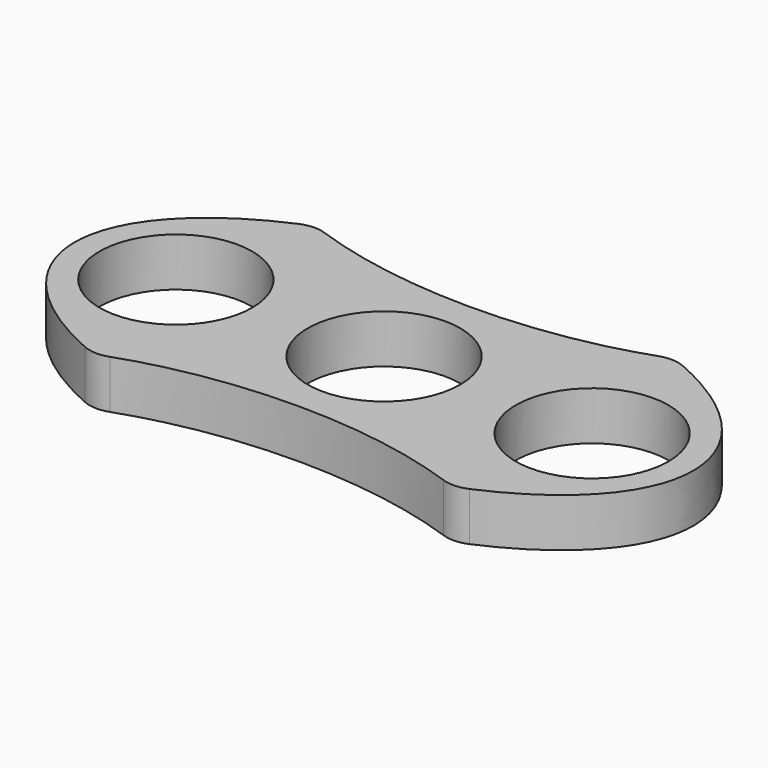
from build123d import *

# Parameters (mm, degrees)
F0_R     = 11
F1_DEPTH = 7
F2_R     = 5


with BuildPart() as f1:
    # F0 (on Top) → F1 (new body)
    with BuildSketch(Plane.XY):
        with BuildLine():
            add(Edge.make_bspline(
                [(25.8036944637, -20), (44.5836596191, -12.6680879542), (44.5836596191, 0)],
                knots=[5.3296088374, 5.3296088374, 5.3296088374, 6.2831853072, 6.2831853072, 6.2831853072], degree=2, weights=[1, 0.8884734716, 1]))
            add(Edge.make_bspline(
                [(44.5836596191, 0), (44.5836596191, 12.6680879542), (25.8036944637, 20)],
                knots=[0, 0, 0, 0.9535764698, 0.9535764698, 0.9535764698], degree=2, weights=[1, 0.8884734716, 1]))
            add(Edge.make_bspline(
                [(-25.8036944637, 20), (0, 9.9259441271), (25.8036944637, 20)],
                knots=[4.0951691234, 4.0951691234, 4.0951691234, 5.3296088374, 5.3296088374, 5.3296088374], degree=2, weights=[1, 0.8154906701, 1]))
            add(Edge.make_bspline(
                [(-25.8036944637, 20), (-77.0317098517, 0), (-25.8036944637, -20)],
                knots=[2.1880161838, 2.1880161838, 2.1880161838, 4.0951691234, 4.0951691234, 4.0951691234], degree=2, weights=[1, 0.5787702195, 1]))
            add(Edge.make_bspline(
                [(25.8036944637, -20), (0, -9.9259441271), (-25.8036944637, -20)],
                knots=[0.9535764698, 0.9535764698, 0.9535764698, 2.1880161838, 2.1880161838, 2.1880161838], degree=2, weights=[1, 0.8154906701, 1]))
        make_face()
        with Locations((-30, 0)):
            Circle(F0_R, mode=Mode.SUBTRACT)
        Circle(F0_R, mode=Mode.SUBTRACT)
        with Locations((30, 0)):
            Circle(F0_R, mode=Mode.SUBTRACT)
    extrude(amount=F1_DEPTH)

    # F2
    f2_edges = [f1.edges().sort_by_distance(p)[0] for p in [
        (25.803694, 20, 3.5),
        (-25.803694, 20, 3.5),
        (25.803694, -20, 3.5),
        (-25.803694, -20, 3.5),
    ]]
    fillet(f2_edges, radius=F2_R)


solid = f1.part
